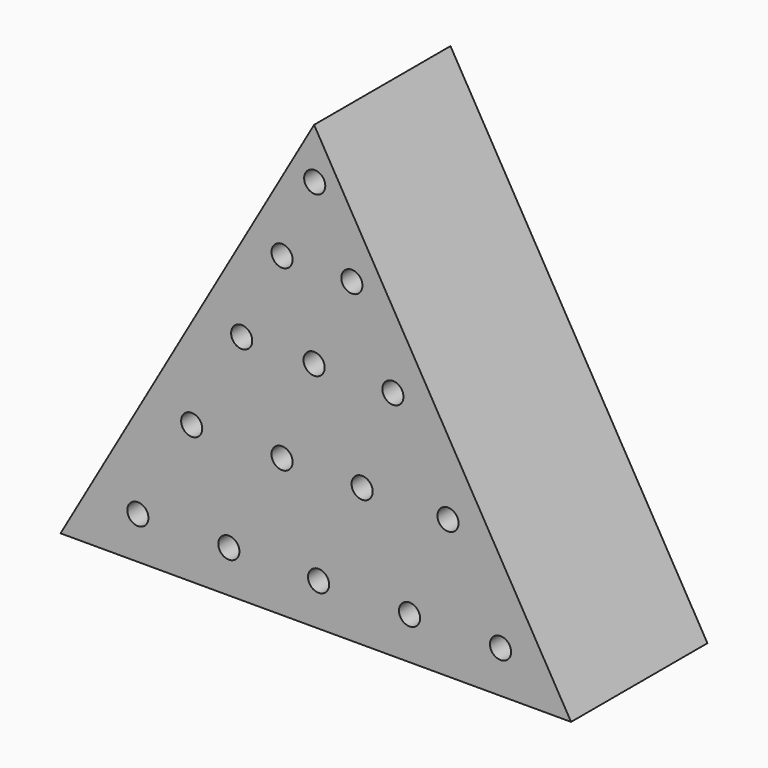
from build123d import *

# Parameters (mm, degrees)
F1_DEPTH  = 25.4
F2_R      = 1.5748
F3_DEPTH  = 12.7
F4_R      = 1.5748
F5_DEPTH  = 12.7
F6_R      = 1.5748
F7_DEPTH  = 12.7
F8_R      = 1.5748
F9_DEPTH  = 12.7
F10_R     = 1.5748
F11_DEPTH = 12.7


with BuildPart() as f1:
    # F0 (on Front) → F1 (new body)
    with BuildSketch(Plane.XZ):
        Polygon((4.777168, 54.35802), (-33.003355, -11.521775), (43.069369, -11.521775), align=None)
    extrude(amount=F1_DEPTH)

    # F2 (on face) → F3 (cut)
    with BuildSketch(Plane.XZ.offset(25.4)):
        with Locations((-21.482399, -5.251253)):
            Circle(F2_R)
        with Locations((-7.924618, -5.251253)):
            Circle(F2_R)
        with Locations((5.442207, -5.251253)):
            Circle(F2_R)
        with Locations((18.999988, -5.251253)):
            Circle(F2_R)
        with Locations((32.557771, -5.251253)):
            Circle(F2_R)
    extrude(amount=-F3_DEPTH, mode=Mode.SUBTRACT)

    # F4 (on face) → F5 (cut)
    with BuildSketch(Plane.XZ.offset(25.4)):
        with Locations((-13.462303, 9.070346)):
            Circle(F4_R)
        with Locations((0, 9.070346)):
            Circle(F4_R)
        with Locations((11.934667, 9.070346)):
            Circle(F4_R)
        with Locations((24.728628, 9.070346)):
            Circle(F4_R)
    extrude(amount=-F5_DEPTH, mode=Mode.SUBTRACT)

    # F6 (on face) → F7 (cut)
    with BuildSketch(Plane.XZ.offset(25.4)):
        with Locations((-6.015072, 23.010036)):
            Circle(F6_R)
        with Locations((4.777168, 23.010036)):
            Circle(F6_R)
        with Locations((16.51758, 23.010036)):
            Circle(F6_R)
    extrude(amount=-F7_DEPTH, mode=Mode.SUBTRACT)

    # F8 (on face) → F9 (cut)
    with BuildSketch(Plane.XZ.offset(25.4)):
        with Locations((0, 35.613045)):
            Circle(F8_R)
        with Locations((10.407028, 35.613045)):
            Circle(F8_R)
    extrude(amount=-F9_DEPTH, mode=Mode.SUBTRACT)

    # F10 (on face) → F11 (cut)
    with BuildSketch(Plane.XZ.offset(25.4)):
        with Locations((4.869344, 46.879366)):
            Circle(F10_R)
    extrude(amount=-F11_DEPTH, mode=Mode.SUBTRACT)


solid = f1.part
